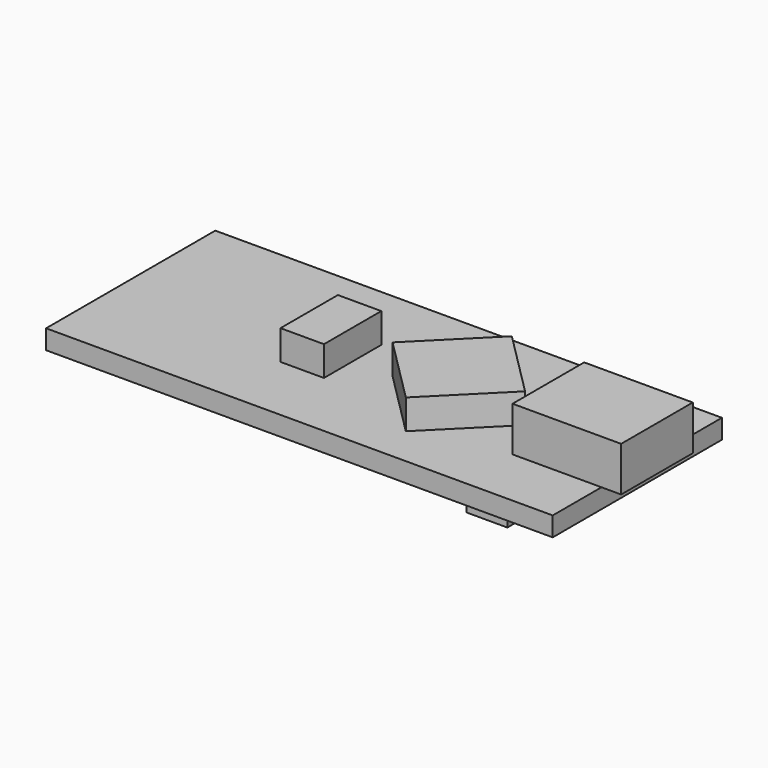
from build123d import *

# Parameters (mm, degrees)
F0_W     = 43.2562
F0_H     = 18.0594
F1_DEPTH = 0.8255
F2_W     = 9.271
F2_H     = 7.6454
F3_DEPTH = 3.81
F4_W     = 3.7084
F4_H     = 6.1214
F5_DEPTH = 2.54
F6_W     = 10.16
F6_H     = 5.207
F6_W_2   = 3.4798
F6_H_2   = 1.6764
F6_W_3   = 3.5052
F6_H_3   = 8.043443
F7_DEPTH = 1.778


with BuildPart() as f1:
    # F0 (on Top) → F1 (new body, symmetric)
    with BuildSketch(Plane.XY):
        Rectangle(F0_W, F0_H)
    extrude(amount=F1_DEPTH, both=True)

    # F2 (on face) → F3 (join)
    with BuildSketch(Plane.XY.offset(0.8255)):
        with Locations((18.669, 0)):
            Rectangle(F2_W, F2_H)
    extrude(amount=F3_DEPTH)

    # F4 (on face) → F5 (join)
    with BuildSketch(Plane.XY.offset(0.8255)):
        with Locations((-4.5339, 0)):
            Rectangle(F4_W, F4_H)
        Polygon((12.045661, 0), (6.3881, 5.657561), (0.730539, 0), (6.3881, -5.657561), align=None)
    extrude(amount=F5_DEPTH)

    # F6 (on face) → F7 (join)
    with BuildSketch(Plane(origin=(0, 0, -0.8255), x_dir=(1, 0, 0), z_dir=(0, 0, -1))):
        with Locations((8.8011, 0)):
            Rectangle(F6_W, F6_H)
        with Locations((14.50628, 6.303569)):
            Rectangle(F6_W_2, F6_H_2)
        with Locations((-12.138053, -3.263815)):
            Rectangle(F6_W_3, F6_H_3)
        with Locations((-11.713614, 3.1115)):
            Rectangle(F6_W_2, F6_H_2)
    extrude(amount=F7_DEPTH)


solid = f1.part
